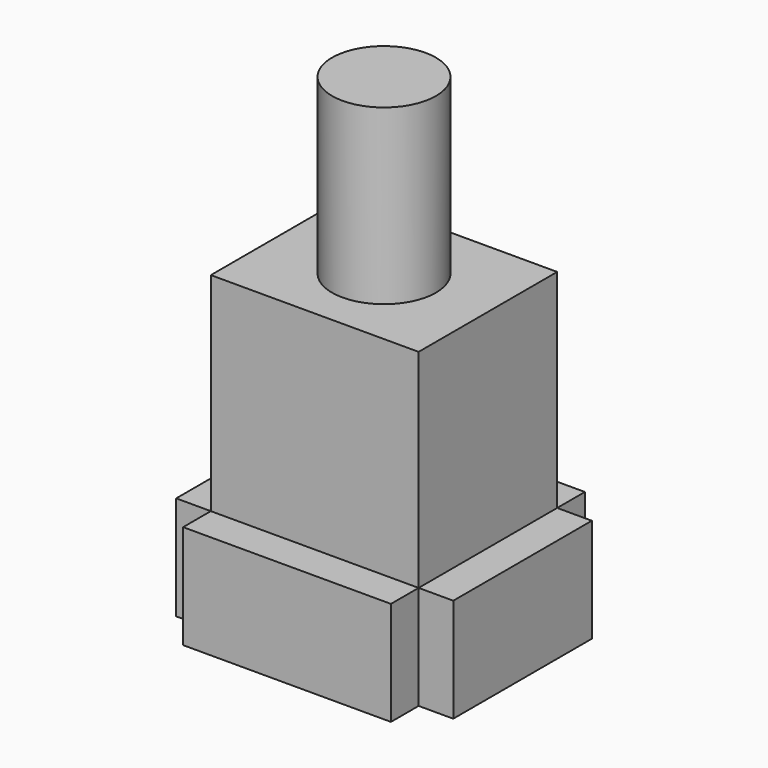
from build123d import *

# Parameters (mm, degrees)
CYLINDER_R     = 1.5
CYLINDER_DEPTH = 10
BOX004_W       = 1
BOX004_H       = 5
BOX004_DEPTH   = 3
BOX005_W       = 1
BOX005_H       = 5
BOX005_DEPTH   = 3
BOX006_W       = 6
BOX006_H       = 1
BOX006_DEPTH   = 3
BOX007_W       = 6
BOX007_H       = 1
BOX007_DEPTH   = 3
BOX003_W       = 6
BOX003_H       = 5
BOX003_DEPTH   = 6


with BuildPart() as cylinder:
    # Cylinder → Cylinder (new body)
    with BuildSketch(Plane(origin=(15, 9.75, 10), x_dir=(1, 0, 0), z_dir=(0, 0, 1))):
        Circle(CYLINDER_R)
    extrude(amount=CYLINDER_DEPTH)


with BuildPart() as box004:
    # Box004 → Box004 (new body)
    with BuildSketch(Plane(origin=(11, 7.25, 6), x_dir=(1, 0, 0), z_dir=(0, 0, 1))):
        with Locations((0.5, 2.5)):
            Rectangle(BOX004_W, BOX004_H)
    extrude(amount=BOX004_DEPTH)


with BuildPart() as box005:
    # Box005 → Box005 (new body)
    with BuildSketch(Plane(origin=(18, 7.25, 6), x_dir=(1, 0, 0), z_dir=(0, 0, 1))):
        with Locations((0.5, 2.5)):
            Rectangle(BOX005_W, BOX005_H)
    extrude(amount=BOX005_DEPTH)


with BuildPart() as box006:
    # Box006 → Box006 (new body)
    with BuildSketch(Plane(origin=(12, 6.25, 6), x_dir=(1, 0, 0), z_dir=(0, 0, 1))):
        with Locations((3, 0.5)):
            Rectangle(BOX006_W, BOX006_H)
    extrude(amount=BOX006_DEPTH)


with BuildPart() as box007:
    # Box007 → Box007 (new body)
    with BuildSketch(Plane(origin=(12, 12.25, 6), x_dir=(1, 0, 0), z_dir=(0, 0, 1))):
        with Locations((3, 0.5)):
            Rectangle(BOX007_W, BOX007_H)
    extrude(amount=BOX007_DEPTH)


with BuildPart() as bt_ex1:
    # Box003 → Box003 (new body)
    with BuildSketch(Plane(origin=(12, 7.25, 9), x_dir=(1, 0, 0), z_dir=(0, 0, 1))):
        with Locations((3, 2.5)):
            Rectangle(BOX003_W, BOX003_H)
    extrude(amount=BOX003_DEPTH)

    # Fusion: union Box004, Box005, Box006, Box007
    add(box004.part)
    add(box005.part)
    add(box006.part)
    add(box007.part)

    # Fusion005: union Cylinder
    add(cylinder.part)


with BuildPart() as bt_ex1_1:
    # Fusion005 placement: moved
    add(bt_ex1.part.moved(Location((0, 0, 4))))


solid = bt_ex1_1.part
